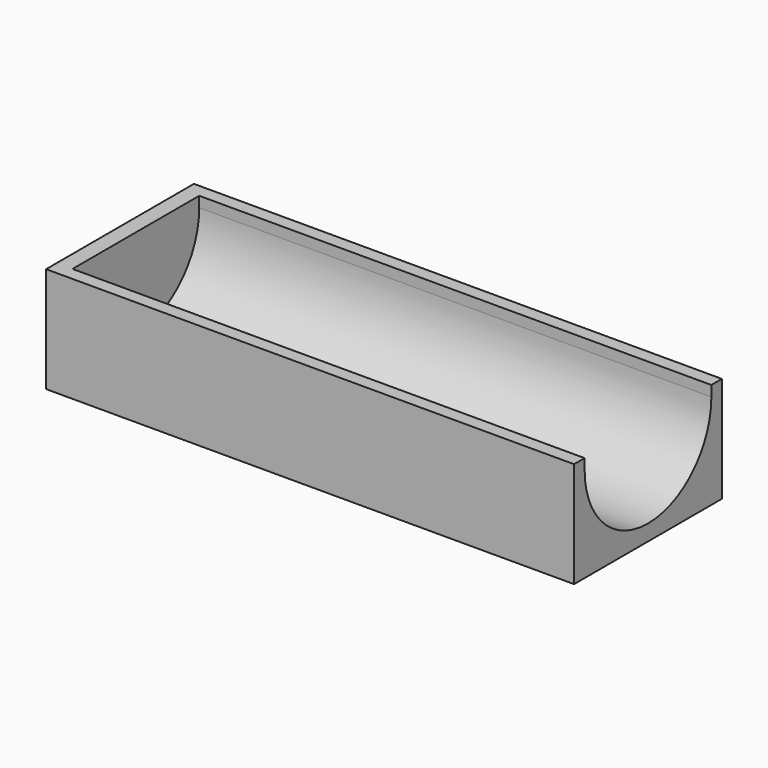
from build123d import *

# Parameters (mm, degrees)
F0_W     = 50
F0_H     = 17.5
F1_DEPTH = 20
F3_DEPTH = 97


with BuildPart() as f1:
    # F0 (on Top) → F1 (new body)
    with BuildSketch(Plane.XY):
        with Locations((-25, 8.75)):
            Rectangle(F0_W, F0_H)
        with Locations((25, 8.75)):
            Rectangle(F0_W, F0_H)
        with Locations((-25, -8.75)):
            Rectangle(F0_W, F0_H)
        with Locations((25, -8.75)):
            Rectangle(F0_W, F0_H)
    extrude(amount=F1_DEPTH)

    # F2 (on face) → F3 (cut)
    with BuildSketch(Plane.YZ.offset(50)):
        with BuildLine():
            ThreePointArc((-15, 18), (0, 3), (15, 18))
            Line((15, 18), (15, 20))
            Line((15, 20), (-15, 20))
            Line((-15, 20), (-15, 18))
        make_face()
    extrude(amount=-F3_DEPTH, mode=Mode.SUBTRACT)


solid = f1.part
